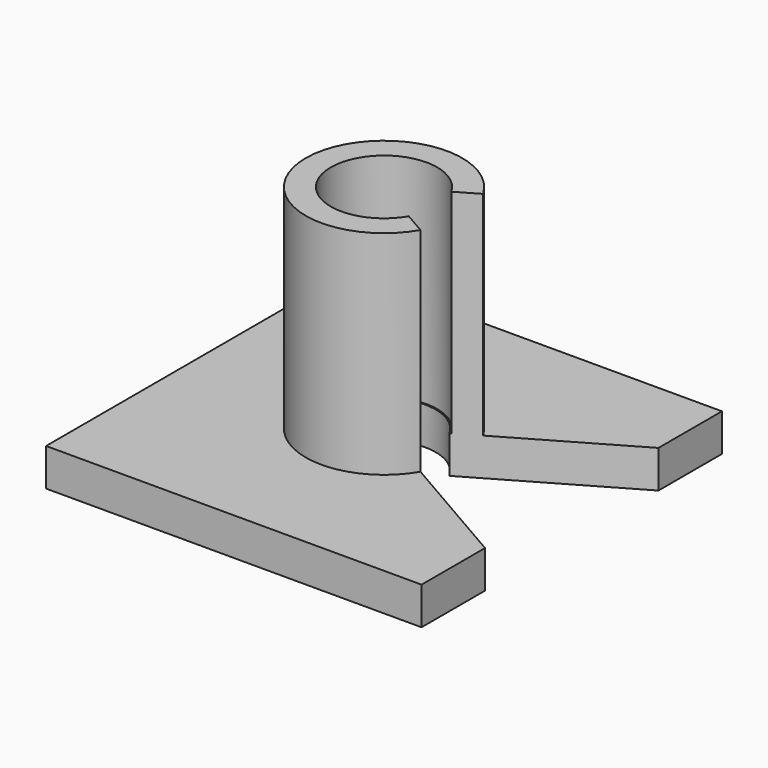
from build123d import *

# Parameters (mm, degrees)
F0_R     = 6.25
F0_R_2   = 4.25
F1_DEPTH = 20
F2_W     = 30
F2_H     = 30
F3_DEPTH = 3
F4_R     = 4.134278
F5_DEPTH = 20.001
F7_DEPTH = 25


with BuildPart() as f1:
    # F0 (on Top) → F1 (new body)
    with BuildSketch(Plane.XY):
        Circle(F0_R)
        Circle(F0_R_2, mode=Mode.SUBTRACT)
    extrude(amount=F1_DEPTH)

    # F2 (on Top) → F3 (join)
    with BuildSketch(Plane.XY):
        Rectangle(F2_W, F2_H)
    extrude(amount=F3_DEPTH)

    # F4 (on Top) → F5 (cut, through all)
    with BuildSketch(Plane.XY):
        Circle(F4_R)
    extrude(amount=F5_DEPTH, mode=Mode.SUBTRACT)

    # F6 (on Top) → F7 (cut)
    with BuildSketch(Plane.XY):
        Polygon((63.665008, -36.75701), (63.665008, 36.75701), (0, 0), align=None)
    extrude(amount=F7_DEPTH, mode=Mode.SUBTRACT)


solid = f1.part
